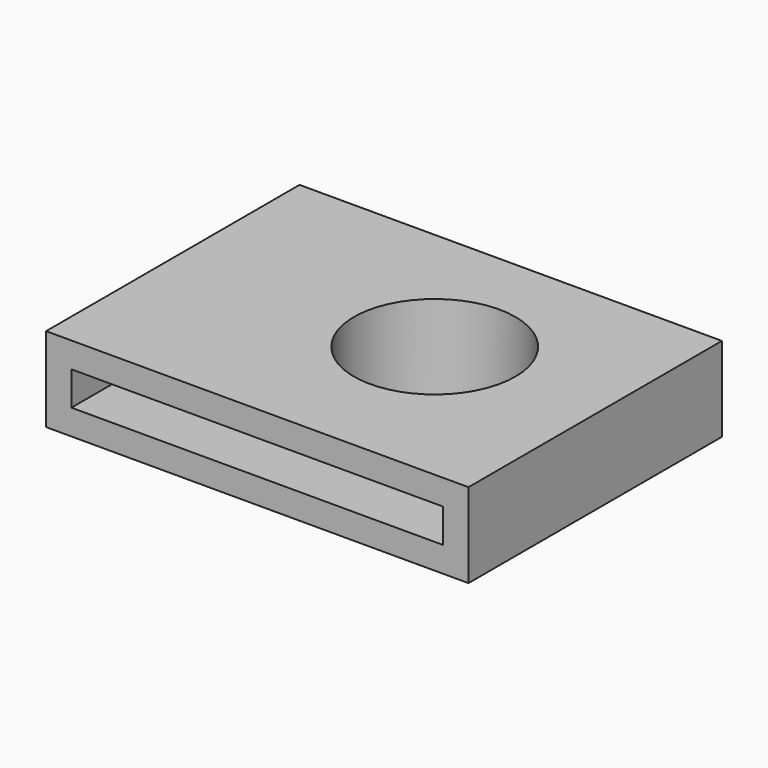
from build123d import *

# Parameters (mm, degrees)
F0_W     = 100
F0_H     = 75
F0_R     = 19.123686
F1_DEPTH = 20
F2_T     = -6


with BuildPart() as f1:
    # F0 (on Top) → F1 (new body)
    with BuildSketch(Plane.XY):
        with Locations((50, -37.5)):
            Rectangle(F0_W, F0_H)
        with Locations((60, -35)):
            Circle(F0_R, mode=Mode.SUBTRACT)
    extrude(amount=F1_DEPTH)

    # F2
    f2_openings = [f1.faces().sort_by_distance(p)[0] for p in [
        (50, -75, 10),
    ]]
    offset(amount=F2_T, openings=f2_openings)


solid = f1.part
